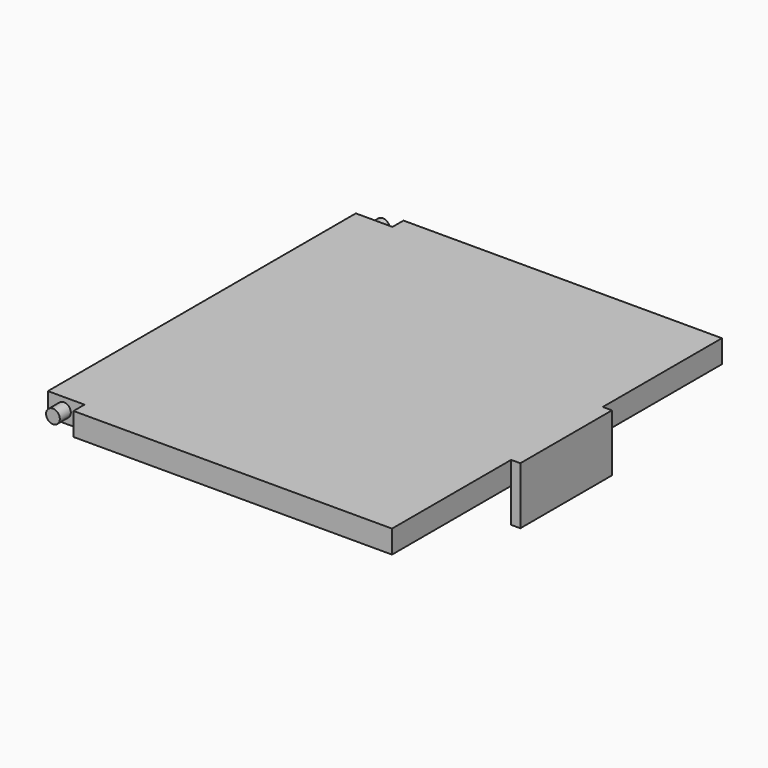
from build123d import *

# Parameters (mm, degrees)
CYLINDER001_R     = 3
CYLINDER001_DEPTH = 148
BOX007_W          = 16
BOX007_H          = 6
BOX007_DEPTH      = 10
CYLINDER_R        = 3
CYLINDER_DEPTH    = 148
BOX006_W          = 16
BOX006_H          = 6
BOX006_DEPTH      = 10
BOX005_W          = 12
BOX005_H          = 10
BOX005_DEPTH      = 20
BOX003_W          = 25
BOX003_H          = 25
BOX003_DEPTH      = 15
BOX001_W          = 145
BOX001_H          = 170
BOX001_DEPTH      = 200
BOX_W             = 155
BOX_H             = 180
BOX_DEPTH         = 170
BOX004_W          = 4
BOX004_H          = 50
BOX004_DEPTH      = 25
BOX002_W          = 155
BOX002_H          = 180
BOX002_DEPTH      = 10


with BuildPart() as cylinder001:
    # Cylinder001 → Cylinder001 (new body)
    with BuildSketch(Plane(origin=(7, 139, 175), x_dir=(1, 0, 0), z_dir=(0, -1, 0))):
        Circle(CYLINDER001_R)
    extrude(amount=CYLINDER001_DEPTH)


with BuildPart() as obj1:
    # Box007 → Box007 (new body)
    with BuildSketch(Plane.XY.offset(170)):
        with Locations((8, 3)):
            Rectangle(BOX007_W, BOX007_H)
    extrude(amount=BOX007_DEPTH)

    # Cut004: cut Cylinder001
    add(cylinder001.part, mode=Mode.SUBTRACT)


with BuildPart() as cylinder:
    # Cylinder → Cylinder (new body)
    with BuildSketch(Plane(origin=(7, 192, 175), x_dir=(1, 0, 0), z_dir=(0, -1, 0))):
        Circle(CYLINDER_R)
    extrude(amount=CYLINDER_DEPTH)


with BuildPart() as obj2:
    # Box006 → Box006 (new body)
    with BuildSketch(Plane(origin=(0, 174, 170), x_dir=(1, 0, 0), z_dir=(0, 0, 1))):
        with Locations((8, 3)):
            Rectangle(BOX006_W, BOX006_H)
    extrude(amount=BOX006_DEPTH)

    # Cut003: cut Cylinder
    add(cylinder.part, mode=Mode.SUBTRACT)


with BuildPart() as cube003:
    # Box005 → Box005 (new body)
    with BuildSketch(Plane(origin=(146, 85, 130), x_dir=(1, 0, 0), z_dir=(0, 0, 1))):
        with Locations((6, 5)):
            Rectangle(BOX005_W, BOX005_H)
    extrude(amount=BOX005_DEPTH)


with BuildPart() as agujero:
    # Box003 → Box003 (new body)
    with BuildSketch(Plane(origin=(10, -7, 5), x_dir=(1, 0, 0), z_dir=(0, 0, 1))):
        with Locations((12.5, 12.5)):
            Rectangle(BOX003_W, BOX003_H)
    extrude(amount=BOX003_DEPTH)


with BuildPart() as cube001:
    # Box001 → Box001 (new body)
    with BuildSketch(Plane(origin=(5, 5, 5), x_dir=(1, 0, 0), z_dir=(0, 0, 1))):
        with Locations((72.5, 85)):
            Rectangle(BOX001_W, BOX001_H)
    extrude(amount=BOX001_DEPTH)


with BuildPart() as fusion002:
    # Box → Box (new body)
    with BuildSketch(Plane.XY):
        with Locations((77.5, 90)):
            Rectangle(BOX_W, BOX_H)
    extrude(amount=BOX_DEPTH)

    # Cut: cut Cube001
    add(cube001.part, mode=Mode.SUBTRACT)

    # Cut001: cut Agujero
    add(agujero.part, mode=Mode.SUBTRACT)

    # Cut002: cut Cube003
    add(cube003.part, mode=Mode.SUBTRACT)

    # Fusion001: union obj2
    add(obj2.part)

    # Fusion002: union obj1
    add(obj1.part)


with BuildPart() as cube002:
    # Box004 → Box004 (new body)
    with BuildSketch(Plane(origin=(155, 65, 155), x_dir=(1, 0, 0), z_dir=(0, 0, 1))):
        with Locations((2, 25)):
            Rectangle(BOX004_W, BOX004_H)
    extrude(amount=BOX004_DEPTH)


with BuildPart() as tapa:
    # Box002 → Box002 (new body)
    with BuildSketch(Plane.XY.offset(170)):
        with Locations((77.5, 90)):
            Rectangle(BOX002_W, BOX002_H)
    extrude(amount=BOX002_DEPTH)

    # Fusion: union Cube002
    add(cube002.part)

    # Cut005: cut Fusion002
    add(fusion002.part, mode=Mode.SUBTRACT)


solid = tapa.part
